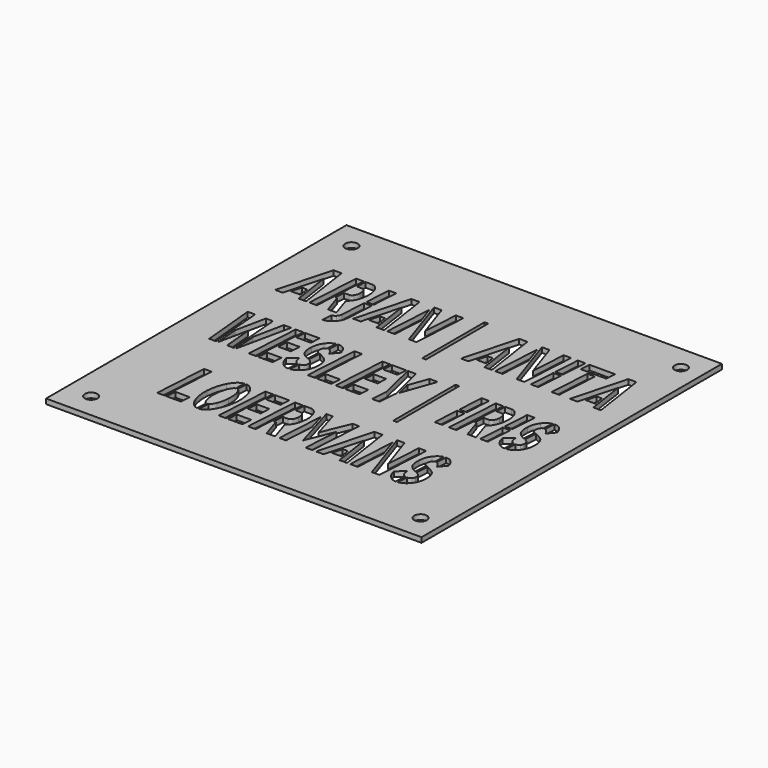
from build123d import *

# Parameters (mm, degrees)
F0_W     = 150
F0_H     = 150
F0_R     = 2.5
F0_W_2   = 1.488286
F0_H_2   = 31.119416
F0_W_3   = 1.488278
F0_H_3   = 31.11941
F1_DEPTH = 2


with BuildPart() as f1:
    # F0 (on Top) → F1 (new body)
    with BuildSketch(Plane.XY):
        with Locations((-0.0457814336, -0.024663806)):
            Rectangle(F0_W, F0_H)
        with Locations((-65.0457814336, -65.024663806)):
            Circle(F0_R, mode=Mode.SUBTRACT)
        Polygon((-46.640085, -50.377932), (-46.403712, -46.30567), (-40.625681, -46.30567), (-40.862055, -50.377932), align=None, mode=Mode.SUBTRACT)
        Polygon((-46.044773, -28.603468), (-47.357962, -50.377932), (-50.360787, -50.377932), (-49.047598, -28.603468), align=None, mode=Mode.SUBTRACT)
        Polygon((-22.100965, -50.377932), (-21.855836, -46.30567), (-16.069052, -46.30567), (-16.305426, -50.377932), align=None, mode=Mode.SUBTRACT)
        with BuildLine():
            add(Edge.make_bspline(
                [(-37.263918, -32.265471), (-36.01493, -29.874781), (-34.561668, -28.608526), (-32.904132, -28.466706)],
                knots=[0, 0, 0, 0, 1, 1, 1, 1], degree=3))
            Line((-32.904132, -28.466706), (-33.158015, -32.706119))
            add(Edge.make_bspline(
                [(-33.158015, -32.706119), (-33.782509, -32.939114), (-34.345721, -33.663411), (-34.847651, -34.879012)],
                knots=[0, 0, 0, 0, 1, 1, 1, 1], degree=3))
            add(Edge.make_bspline(
                [(-34.847651, -34.879012), (-35.384599, -36.195913), (-35.711437, -37.80152), (-35.828166, -39.695836)],
                knots=[0, 0, 0, 0, 1, 1, 1, 1], degree=3))
            add(Edge.make_bspline(
                [(-35.828166, -39.695836), (-35.927384, -41.245731), (-35.819411, -42.633541), (-35.504245, -43.859267)],
                knots=[0, 0, 0, 0, 1, 1, 1, 1], degree=3))
            add(Edge.make_bspline(
                [(-35.504245, -43.859267), (-35.165734, -45.247082), (-34.657968, -46.057483), (-33.980947, -46.290468)],
                knots=[0, 0, 0, 0, 1, 1, 1, 1], degree=3))
            Line((-33.980947, -46.290468), (-34.243584, -50.636253))
            add(Edge.make_bspline(
                [(-34.243584, -50.636253), (-35.994502, -50.322219), (-37.380646, -48.797651), (-38.402015, -46.06255)],
                knots=[0, 0, 0, 0, 1, 1, 1, 1], degree=3))
            add(Edge.make_bspline(
                [(-38.402015, -46.06255), (-39.067364, -44.006155), (-39.327084, -41.807939), (-39.181174, -39.467904)],
                knots=[0, 0, 0, 0, 1, 1, 1, 1], degree=3))
            add(Edge.make_bspline(
                [(-39.181174, -39.467904), (-39.023591, -36.803708), (-38.384506, -34.402897), (-37.263918, -32.265471)],
                knots=[0, 0, 0, 0, 1, 1, 1, 1], degree=3))
        make_face(mode=Mode.SUBTRACT)
        with BuildLine():
            add(Edge.make_bspline(
                [(-31.564679, -33.46587), (-31.815645, -33.02015), (-32.095791, -32.746639), (-32.40512, -32.645339)],
                knots=[0, 0, 0, 0, 1, 1, 1, 1], degree=3))
            Line((-32.40512, -32.645339), (-32.151237, -28.466706))
            add(Edge.make_bspline(
                [(-32.151237, -28.466706), (-30.324446, -28.740221), (-28.923711, -30.224268), (-27.949034, -32.91885)],
                knots=[0, 0, 0, 0, 1, 1, 1, 1], degree=3))
            add(Edge.make_bspline(
                [(-27.949034, -32.91885), (-27.295357, -34.995505), (-27.038556, -37.168393), (-27.178629, -39.437514)],
                knots=[0, 0, 0, 0, 1, 1, 1, 1], degree=3))
            add(Edge.make_bspline(
                [(-27.178629, -39.437514), (-27.342048, -42.051064), (-27.989888, -44.467072), (-29.122148, -46.685538)],
                knots=[0, 0, 0, 0, 1, 1, 1, 1], degree=3))
            add(Edge.make_bspline(
                [(-29.122148, -46.685538), (-30.371137, -49.147134), (-31.824399, -50.464039), (-33.481935, -50.636253)],
                knots=[0, 0, 0, 0, 1, 1, 1, 1], degree=3))
            Line((-33.481935, -50.636253), (-33.219297, -46.290468))
            add(Edge.make_bspline(
                [(-33.219297, -46.290468), (-32.606476, -46.006828), (-32.052018, -45.272405), (-31.555925, -44.087199)],
                knots=[0, 0, 0, 0, 1, 1, 1, 1], degree=3))
            add(Edge.make_bspline(
                [(-31.555925, -44.087199), (-31.01314, -42.810818), (-30.683384, -41.265991), (-30.566656, -39.452715)],
                knots=[0, 0, 0, 0, 1, 1, 1, 1], degree=3))
            add(Edge.make_bspline(
                [(-30.566656, -39.452715), (-30.41491, -37.001246), (-30.747584, -35.00563), (-31.564679, -33.46587)],
                knots=[0, 0, 0, 0, 1, 1, 1, 1], degree=3))
        make_face(mode=Mode.SUBTRACT)
        Polygon((-21.531917, -28.603468), (-22.845105, -50.377932), (-25.84793, -50.377932), (-24.534742, -28.603468), align=None, mode=Mode.SUBTRACT)
        Polygon((-21.540671, -41.093776), (-21.286789, -37.021514), (-16.252898, -37.021514), (-16.506781, -41.093776), align=None, mode=Mode.SUBTRACT)
        Polygon((-9.765746, -28.603468), (-11.078935, -50.377932), (-14.081759, -50.377932), (-12.768571, -28.603468), align=None, mode=Mode.SUBTRACT)
        with BuildLine():
            Line((-5.887463, -42.278987), (-3.261087, -50.377932))
            Line((-3.261087, -50.377932), (-6.640357, -50.377932))
            Line((-6.640357, -50.377932), (-9.152925, -42.658868))
            Line((-9.152925, -42.658868), (-9.870801, -42.658868))
            Line((-9.870801, -42.658868), (-9.616918, -38.586593))
            Line((-9.616918, -38.586593), (-7.577098, -38.586593))
            add(Edge.make_bspline(
                [(-7.577098, -38.586593), (-7.045986, -38.586593), (-6.60242, -38.308021), (-6.2464, -37.750875)],
                knots=[0, 0, 0, 0, 1, 1, 1, 1], degree=3))
            add(Edge.make_bspline(
                [(-6.2464, -37.750875), (-5.89038, -37.203855), (-5.686106, -36.499817), (-5.633579, -35.638762)],
                knots=[0, 0, 0, 0, 1, 1, 1, 1], degree=3))
            add(Edge.make_bspline(
                [(-5.633579, -35.638762), (-5.586888, -34.808102), (-5.706534, -34.109132), (-5.992517, -33.541851)],
                knots=[0, 0, 0, 0, 1, 1, 1, 1], degree=3))
            add(Edge.make_bspline(
                [(-5.992517, -33.541851), (-6.29601, -32.964437), (-6.704557, -32.675729), (-7.21816, -32.675729)],
                knots=[0, 0, 0, 0, 1, 1, 1, 1], degree=3))
            Line((-7.21816, -32.675729), (-9.25798, -32.675729))
            Line((-9.25798, -32.675729), (-9.021606, -28.603468))
            Line((-9.021606, -28.603468), (-6.421492, -28.603468))
            add(Edge.make_bspline(
                [(-6.421492, -28.603468), (-5.330087, -28.603468), (-4.422528, -29.292308), (-3.698816, -30.669989)],
                knots=[0, 0, 0, 0, 1, 1, 1, 1], degree=3))
            add(Edge.make_bspline(
                [(-3.698816, -30.669989), (-2.980938, -32.057804), (-2.677445, -33.678604), (-2.788339, -35.532391)],
                knots=[0, 0, 0, 0, 1, 1, 1, 1], degree=3))
            add(Edge.make_bspline(
                [(-2.788339, -35.532391), (-2.887555, -37.102546), (-3.220229, -38.495423), (-3.786362, -39.711024)],
                knots=[0, 0, 0, 0, 1, 1, 1, 1], degree=3))
            add(Edge.make_bspline(
                [(-3.786362, -39.711024), (-4.334982, -40.936759), (-5.035349, -41.792746), (-5.887463, -42.278987)],
                knots=[0, 0, 0, 0, 1, 1, 1, 1], degree=3))
        make_face(mode=Mode.SUBTRACT)
        with BuildLine():
            Line((-57.78468, -11.738152), (-60.524867, -11.738152))
            Line((-60.524867, -11.738152), (-62.555932, 10.036312))
            Line((-62.555932, 10.036312), (-59.59688, 10.036312))
            add(Edge.make_bspline(
                [(-59.59688, 10.036312), (-58.540493, -2.342571), (-57.936426, -9.600725), (-57.78468, -11.738152)],
                knots=[0, 0, 0, 0, 1, 1, 1, 1], degree=3))
        make_face(mode=Mode.SUBTRACT)
        Polygon((-40.940846, -11.738152), (-40.695717, -7.66589), (-34.908932, -7.66589), (-35.145307, -11.738152), align=None, mode=Mode.SUBTRACT)
        Polygon((-52.453134, 10.036312), (-50.614669, -11.738152), (-53.354857, -11.738152), (-54.44918, 0.053181), (-56.952994, -11.738152), (-57.810943, -2.180486), (-55.272113, 10.036312), align=None, mode=Mode.SUBTRACT)
        Polygon((-49.861775, -11.738152), (-50.632179, -2.180486), (-48.128366, 10.036312), (-45.169314, 10.036312), align=None, mode=Mode.SUBTRACT)
        Polygon((-40.371798, 10.036312), (-41.684986, -11.738152), (-44.687811, -11.738152), (-43.374622, 10.036312), align=None, mode=Mode.SUBTRACT)
        Polygon((-40.380552, -2.453996), (-40.126669, 1.618269), (-35.092779, 1.618269), (-35.346662, -2.453996), align=None, mode=Mode.SUBTRACT)
        Polygon((-21.02415, -32.675729), (-20.787777, -28.603468), (-14.992237, -28.603468), (-15.237366, -32.675729), align=None, mode=Mode.SUBTRACT)
        with BuildLine():
            add(Edge.make_bspline(
                [(-31.844825, -10.568143), (-32.685266, -9.666568), (-33.248478, -8.471227), (-33.534462, -6.982121)],
                knots=[0, 0, 0, 0, 1, 1, 1, 1], degree=3))
            Line((-33.534462, -6.982121), (-30.374054, -4.383769))
            add(Edge.make_bspline(
                [(-30.374054, -4.383769), (-30.31569, -6.105869), (-29.702869, -7.174587), (-28.53559, -7.589922)],
                knots=[0, 0, 0, 0, 1, 1, 1, 1], degree=3))
            Line((-28.53559, -7.589922), (-28.806983, -12.042052))
            add(Edge.make_bspline(
                [(-28.806983, -12.042052), (-29.974261, -11.971128), (-30.986875, -11.479825), (-31.844825, -10.568143)],
                knots=[0, 0, 0, 0, 1, 1, 1, 1], degree=3))
        make_face(mode=Mode.SUBTRACT)
        with BuildLine():
            Line((-27.511303, -3.289741), (-27.213647, 1.86139))
            Line((-27.213647, 1.86139), (-26.915991, 1.755018))
            add(Edge.make_bspline(
                [(-26.915991, 1.755018), (-25.404365, 1.035787), (-24.382996, 0.382401), (-23.851884, -0.205141)],
                knots=[0, 0, 0, 0, 1, 1, 1, 1], degree=3))
            add(Edge.make_bspline(
                [(-23.851884, -0.205141), (-22.877206, -1.309321), (-22.456986, -2.935191), (-22.591223, -5.082752)],
                knots=[0, 0, 0, 0, 1, 1, 1, 1], degree=3))
            add(Edge.make_bspline(
                [(-22.591223, -5.082752), (-22.72546, -6.946673), (-23.312018, -8.521891), (-24.350896, -9.808406)],
                knots=[0, 0, 0, 0, 1, 1, 1, 1], degree=3))
            add(Edge.make_bspline(
                [(-24.350896, -9.808406), (-25.378101, -11.074652), (-26.606662, -11.798945), (-28.036579, -11.981285)],
                knots=[0, 0, 0, 0, 1, 1, 1, 1], degree=3))
            Line((-28.036579, -11.981285), (-27.79145, -7.696293))
            Line((-27.79145, -7.696293), (-27.528812, -7.696293))
            add(Edge.make_bspline(
                [(-27.528812, -7.696293), (-26.986028, -7.615289), (-26.565807, -7.422818), (-26.268151, -7.118883)],
                knots=[0, 0, 0, 0, 1, 1, 1, 1], degree=3))
            add(Edge.make_bspline(
                [(-26.268151, -7.118883), (-25.952986, -6.794723), (-25.780812, -6.389523), (-25.75163, -5.903282)],
                knots=[0, 0, 0, 0, 1, 1, 1, 1], degree=3))
            add(Edge.make_bspline(
                [(-25.75163, -5.903282), (-25.681593, -4.748462), (-26.174769, -3.927932), (-27.231156, -3.441691)],
                knots=[0, 0, 0, 0, 1, 1, 1, 1], degree=3))
            add(Edge.make_bspline(
                [(-27.231156, -3.441691), (-27.412084, -3.350517), (-27.505467, -3.299867), (-27.511303, -3.289741)],
                knots=[0, 0, 0, 0, 1, 1, 1, 1], degree=3))
        make_face(mode=Mode.SUBTRACT)
        Polygon((-16.874473, 10.036312), (-18.187662, -11.738152), (-21.190487, -11.738152), (-19.877298, 10.036312), align=None, mode=Mode.SUBTRACT)
        Polygon((-17.469785, -11.738152), (-17.233411, -7.66589), (-11.455381, -7.66589), (-11.691755, -11.738152), align=None, mode=Mode.SUBTRACT)
        Polygon((-6.272667, -11.738152), (-6.027539, -7.66589), (-0.240753, -7.66589), (-0.47713, -11.738152), align=None, mode=Mode.SUBTRACT)
        Polygon((-5.703619, 10.036312), (-7.016807, -11.738152), (-10.019632, -11.738152), (-8.706444, 10.036312), align=None, mode=Mode.SUBTRACT)
        Polygon((-5.712373, -2.453996), (-5.45849, 1.618269), (-0.424603, 1.618269), (-0.678482, -2.453996), align=None, mode=Mode.SUBTRACT)
        Polygon((-0.372067, -30.92831), (1.807827, -38.313083), (1.081193, -50.377932), (-1.545181, -50.377932), align=None, mode=Mode.SUBTRACT)
        Polygon((5.230872, -47.1262), (-0.231994, -28.603468), (2.324343, -28.603468), (5.668601, -39.847786), (10.317287, -28.603468), (12.882383, -28.603468), (11.569196, -50.377932), (8.925305, -50.377932), (9.800763, -35.988241), align=None, mode=Mode.SUBTRACT)
        Polygon((21.313048, -47.992322), (17.478542, -47.992322), (18.581619, -43.920047), (20.682719, -43.920047), align=None, mode=Mode.SUBTRACT)
        Polygon((20.166202, -35.16771), (16.08656, -50.377932), (13.083735, -50.377932), (18.949312, -28.603468), (22.214774, -28.603468), (25.436467, -50.377932), (22.433642, -50.377932), align=None, mode=Mode.SUBTRACT)
        Polygon((27.905259, -30.71558), (30.444088, -38.313083), (29.717461, -50.377932), (26.714636, -50.377932), align=None, mode=Mode.SUBTRACT)
        with BuildLine():
            Line((39.706449, -28.603468), (38.393255, -50.377932))
            Line((38.393255, -50.377932), (35.346661, -50.377932))
            Line((35.346661, -50.377932), (28.027823, -28.603468))
            Line((28.027823, -28.603468), (31.030648, -28.603468))
            add(Edge.make_bspline(
                [(31.030648, -28.603468), (33.861299, -36.9506), (35.466305, -41.691446), (35.845668, -42.826007)],
                knots=[0, 0, 0, 0, 1, 1, 1, 1], degree=3))
            Line((35.845668, -42.826007), (36.703624, -28.603468))
            Line((36.703624, -28.603468), (39.706449, -28.603468))
        make_face(mode=Mode.SUBTRACT)
        with Locations((66.5786843773, -65.024663806)):
            Circle(F0_R, mode=Mode.SUBTRACT)
        with BuildLine():
            add(Edge.make_bspline(
                [(42.113955, -49.207923), (41.273516, -48.306348), (40.710306, -47.111003), (40.424325, -45.621888)],
                knots=[0, 0, 0, 0, 1, 1, 1, 1], degree=3))
            Line((40.424325, -45.621888), (43.584733, -43.023549))
            add(Edge.make_bspline(
                [(43.584733, -43.023549), (43.643096, -44.745649), (44.255917, -45.814363), (45.423195, -46.229688)],
                knots=[0, 0, 0, 0, 1, 1, 1, 1], degree=3))
            Line((45.423195, -46.229688), (45.151799, -50.681832))
            add(Edge.make_bspline(
                [(45.151799, -50.681832), (43.984521, -50.610908), (42.971907, -50.119605), (42.113955, -49.207923)],
                knots=[0, 0, 0, 0, 1, 1, 1, 1], degree=3))
        make_face(mode=Mode.SUBTRACT)
        with BuildLine():
            Line((46.447484, -41.929521), (46.74514, -36.778394))
            Line((46.74514, -36.778394), (47.042796, -36.884779))
            add(Edge.make_bspline(
                [(47.042796, -36.884779), (48.554423, -37.604014), (49.57579, -38.257402), (50.106899, -38.844942)],
                knots=[0, 0, 0, 0, 1, 1, 1, 1], degree=3))
            add(Edge.make_bspline(
                [(50.106899, -38.844942), (51.081578, -39.949108), (51.501798, -41.574976), (51.367559, -43.722545)],
                knots=[0, 0, 0, 0, 1, 1, 1, 1], degree=3))
            add(Edge.make_bspline(
                [(51.367559, -43.722545), (51.233324, -45.586466), (50.646769, -47.161684), (49.607892, -48.448199)],
                knots=[0, 0, 0, 0, 1, 1, 1, 1], degree=3))
            add(Edge.make_bspline(
                [(49.607892, -48.448199), (48.580683, -49.714445), (47.352122, -50.438738), (45.92221, -50.621078)],
                knots=[0, 0, 0, 0, 1, 1, 1, 1], degree=3))
            Line((45.92221, -50.621078), (46.167338, -46.336086))
            Line((46.167338, -46.336086), (46.429975, -46.336086))
            add(Edge.make_bspline(
                [(46.429975, -46.336086), (46.972757, -46.255082), (47.392977, -46.062612), (47.690635, -45.758676)],
                knots=[0, 0, 0, 0, 1, 1, 1, 1], degree=3))
            add(Edge.make_bspline(
                [(47.690635, -45.758676), (48.0058, -45.434516), (48.177972, -45.029316), (48.207151, -44.543076)],
                knots=[0, 0, 0, 0, 1, 1, 1, 1], degree=3))
            add(Edge.make_bspline(
                [(48.207151, -44.543076), (48.277188, -43.388255), (47.784014, -42.567725), (46.727631, -42.081485)],
                knots=[0, 0, 0, 0, 1, 1, 1, 1], degree=3))
            add(Edge.make_bspline(
                [(46.727631, -42.081485), (46.5467, -41.99031), (46.453318, -41.939656), (46.447484, -41.929521)],
                knots=[0, 0, 0, 0, 1, 1, 1, 1], degree=3))
        make_face(mode=Mode.SUBTRACT)
        Polygon((4.609293, -11.738152), (5.003245, -5.143519), (1.413867, 10.036312), (4.67933, 10.036312), (5.826176, 5.234685), (8.198671, -4.505329), (7.971052, -5.143519), (7.568341, -11.738152), align=None, mode=Mode.SUBTRACT)
        with Locations((19.623418, -3.517652)):
            Rectangle(F0_W_2, F0_H_2, mode=Mode.SUBTRACT)
        Polygon((32.597722, -11.738152), (29.594897, -11.738152), (30.225227, -1.359956), (33.228052, -1.359956), align=None, mode=Mode.SUBTRACT)
        Polygon((39.575135, 10.036312), (38.261947, -11.738152), (35.259122, -11.738152), (36.57231, 10.036312), align=None, mode=Mode.SUBTRACT)
        with BuildLine():
            add(Edge.make_bspline(
                [(44.89792, -34.62069), (44.84539, -35.502005), (45.216002, -36.10981), (46.009755, -36.444104)],
                knots=[0, 0, 0, 0, 1, 1, 1, 1], degree=3))
            Line((46.009755, -36.444104), (45.694583, -41.610406))
            add(Edge.make_bspline(
                [(45.694583, -41.610406), (44.112924, -40.901306), (43.076967, -40.065579), (42.58671, -39.103224)],
                knots=[0, 0, 0, 0, 1, 1, 1, 1], degree=3))
            add(Edge.make_bspline(
                [(42.58671, -39.103224), (42.026412, -38.019318), (41.79879, -36.62644), (41.903845, -34.92459)],
                knots=[0, 0, 0, 0, 1, 1, 1, 1], degree=3))
            add(Edge.make_bspline(
                [(41.903845, -34.92459), (42.0089, -33.16197), (42.519586, -31.667792), (43.435901, -30.442057)],
                knots=[0, 0, 0, 0, 1, 1, 1, 1], degree=3))
            add(Edge.make_bspline(
                [(43.435901, -30.442057), (44.293852, -29.297371), (45.31814, -28.583208), (46.508763, -28.299568)],
                knots=[0, 0, 0, 0, 1, 1, 1, 1], degree=3))
            Line((46.508763, -28.299568), (46.254884, -32.538981))
            add(Edge.make_bspline(
                [(46.254884, -32.538981), (45.893022, -32.630147), (45.580774, -32.88846), (45.31814, -33.31392)],
                knots=[0, 0, 0, 0, 1, 1, 1, 1], degree=3))
            add(Edge.make_bspline(
                [(45.31814, -33.31392), (45.061339, -33.729254), (44.921265, -34.164844), (44.89792, -34.62069)],
                knots=[0, 0, 0, 0, 1, 1, 1, 1], degree=3))
        make_face(mode=Mode.SUBTRACT)
        with BuildLine():
            Line((46.999019, -32.584559), (47.261657, -28.238788))
            Line((47.261657, -28.238788), (47.392979, -28.238788))
            add(Edge.make_bspline(
                [(47.392979, -28.238788), (49.412369, -28.238788), (50.745985, -29.510105), (51.393826, -32.052741)],
                knots=[0, 0, 0, 0, 1, 1, 1, 1], degree=3))
            Line((51.393826, -32.052741), (48.968804, -34.92459))
            add(Edge.make_bspline(
                [(48.968804, -34.92459), (48.525238, -33.759644), (47.868643, -32.979634), (46.999019, -32.584559)],
                knots=[0, 0, 0, 0, 1, 1, 1, 1], degree=3))
        make_face(mode=Mode.SUBTRACT)
        with BuildLine():
            Line((43.453418, -3.639207), (46.079792, -11.738152))
            Line((46.079792, -11.738152), (42.700524, -11.738152))
            Line((42.700524, -11.738152), (40.187955, -4.019088))
            Line((40.187955, -4.019088), (39.47008, -4.019088))
            Line((39.47008, -4.019088), (39.723959, 0.053181))
            Line((39.723959, 0.053181), (41.76378, 0.053181))
            add(Edge.make_bspline(
                [(41.76378, 0.053181), (42.294894, 0.053181), (42.738459, 0.331757), (43.094476, 0.888908)],
                knots=[0, 0, 0, 0, 1, 1, 1, 1], degree=3))
            add(Edge.make_bspline(
                [(43.094476, 0.888908), (43.450498, 1.435929), (43.654772, 2.139965), (43.707297, 3.001016)],
                knots=[0, 0, 0, 0, 1, 1, 1, 1], degree=3))
            add(Edge.make_bspline(
                [(43.707297, 3.001016), (43.753967, 3.831678), (43.634323, 4.530649), (43.348363, 5.09793)],
                knots=[0, 0, 0, 0, 1, 1, 1, 1], degree=3))
            add(Edge.make_bspline(
                [(43.348363, 5.09793), (43.044871, 5.67534), (42.636324, 5.964045), (42.122721, 5.964045)],
                knots=[0, 0, 0, 0, 1, 1, 1, 1], degree=3))
            Line((42.122721, 5.964045), (40.0829, 5.964045))
            Line((40.0829, 5.964045), (40.31927, 10.036312))
            Line((40.31927, 10.036312), (42.919384, 10.036312))
            add(Edge.make_bspline(
                [(42.919384, 10.036312), (44.010791, 10.036312), (44.918351, 9.347471), (45.642063, 7.969789)],
                knots=[0, 0, 0, 0, 1, 1, 1, 1], degree=3))
            add(Edge.make_bspline(
                [(45.642063, 7.969789), (46.359941, 6.581976), (46.663433, 4.961174), (46.552539, 3.107381)],
                knots=[0, 0, 0, 0, 1, 1, 1, 1], degree=3))
            add(Edge.make_bspline(
                [(46.552539, 3.107381), (46.453323, 1.537229), (46.120649, 0.144352), (45.554517, -1.071251)],
                knots=[0, 0, 0, 0, 1, 1, 1, 1], degree=3))
            add(Edge.make_bspline(
                [(45.554517, -1.071251), (45.005897, -2.296981), (44.30553, -3.152966), (43.453418, -3.639207)],
                knots=[0, 0, 0, 0, 1, 1, 1, 1], degree=3))
        make_face(mode=Mode.SUBTRACT)
        Polygon((50.807273, -11.738152), (47.804448, -11.738152), (48.434778, -1.359956), (51.437603, -1.359956), align=None, mode=Mode.SUBTRACT)
        with BuildLine():
            add(Edge.make_bspline(
                [(54.545475, -10.568143), (53.705036, -9.666568), (53.141823, -8.471227), (52.855838, -6.982121)],
                knots=[0, 0, 0, 0, 1, 1, 1, 1], degree=3))
            Line((52.855838, -6.982121), (56.016245, -4.383769))
            add(Edge.make_bspline(
                [(56.016245, -4.383769), (56.074609, -6.105869), (56.68743, -7.174587), (57.854707, -7.589922)],
                knots=[0, 0, 0, 0, 1, 1, 1, 1], degree=3))
            Line((57.854707, -7.589922), (57.583319, -12.042052))
            add(Edge.make_bspline(
                [(57.583319, -12.042052), (56.416041, -11.971128), (55.403427, -11.479825), (54.545475, -10.568143)],
                knots=[0, 0, 0, 0, 1, 1, 1, 1], degree=3))
        make_face(mode=Mode.SUBTRACT)
        with BuildLine():
            Line((58.878997, -3.289741), (59.176653, 1.86139))
            Line((59.176653, 1.86139), (59.474308, 1.755018))
            add(Edge.make_bspline(
                [(59.474308, 1.755018), (60.985935, 1.035787), (62.007305, 0.382401), (62.538419, -0.205141)],
                knots=[0, 0, 0, 0, 1, 1, 1, 1], degree=3))
            add(Edge.make_bspline(
                [(62.538419, -0.205141), (63.513093, -1.309321), (63.933313, -2.935191), (63.799079, -5.082752)],
                knots=[0, 0, 0, 0, 1, 1, 1, 1], degree=3))
            add(Edge.make_bspline(
                [(63.799079, -5.082752), (63.664839, -6.946673), (63.078281, -8.521891), (62.039404, -9.808406)],
                knots=[0, 0, 0, 0, 1, 1, 1, 1], degree=3))
            add(Edge.make_bspline(
                [(62.039404, -9.808406), (61.0122, -11.074652), (59.783639, -11.798945), (58.353722, -11.981285)],
                knots=[0, 0, 0, 0, 1, 1, 1, 1], degree=3))
            Line((58.353722, -11.981285), (58.59885, -7.696293))
            Line((58.59885, -7.696293), (58.861488, -7.696293))
            add(Edge.make_bspline(
                [(58.861488, -7.696293), (59.404274, -7.615289), (59.824494, -7.422818), (60.122147, -7.118883)],
                knots=[0, 0, 0, 0, 1, 1, 1, 1], degree=3))
            add(Edge.make_bspline(
                [(60.122147, -7.118883), (60.437312, -6.794723), (60.609487, -6.389523), (60.638671, -5.903282)],
                knots=[0, 0, 0, 0, 1, 1, 1, 1], degree=3))
            add(Edge.make_bspline(
                [(60.638671, -5.903282), (60.708708, -4.748462), (60.215532, -3.927932), (59.159143, -3.441691)],
                knots=[0, 0, 0, 0, 1, 1, 1, 1], degree=3))
            add(Edge.make_bspline(
                [(59.159143, -3.441691), (58.978218, -3.350517), (58.884836, -3.299867), (58.878997, -3.289741)],
                knots=[0, 0, 0, 0, 1, 1, 1, 1], degree=3))
        make_face(mode=Mode.SUBTRACT)
        Polygon((-56.83043, 29.287239), (-60.66494, 29.287239), (-59.561862, 33.359506), (-57.46076, 33.359506), align=None, mode=Mode.SUBTRACT)
        with BuildLine():
            Line((-37.797953, 37.279822), (-34.830146, 37.279822))
            Line((-34.830146, 37.279822), (-35.486741, 26.309014))
            add(Edge.make_bspline(
                [(-35.486741, 26.309014), (-35.609305, 24.566651), (-36.271736, 23.107929), (-37.474033, 21.932848)],
                knots=[0, 0, 0, 0, 1, 1, 1, 1], degree=3))
            add(Edge.make_bspline(
                [(-37.474033, 21.932848), (-38.559602, 20.899586), (-39.71229, 20.382955), (-40.932097, 20.382955)],
                knots=[0, 0, 0, 0, 1, 1, 1, 1], degree=3))
            Line((-40.932097, 20.382955), (-40.678213, 24.516002))
            add(Edge.make_bspline(
                [(-40.678213, 24.516002), (-40.112083, 24.516002), (-39.604317, 24.754057), (-39.154915, 25.230167)],
                knots=[0, 0, 0, 0, 1, 1, 1, 1], degree=3))
            add(Edge.make_bspline(
                [(-39.154915, 25.230167), (-38.705512, 25.736668), (-38.460384, 26.349534), (-38.419529, 27.068765)],
                knots=[0, 0, 0, 0, 1, 1, 1, 1], degree=3))
            Line((-38.419529, 27.068765), (-37.797953, 37.279822))
        make_face(mode=Mode.SUBTRACT)
        with BuildLine():
            add(Edge.make_bspline(
                [(-29.060865, 4.019083), (-29.113393, 3.137772), (-28.742782, 2.529971), (-27.949032, 2.19568)],
                knots=[0, 0, 0, 0, 1, 1, 1, 1], degree=3))
            Line((-27.949032, 2.19568), (-28.264198, -2.970626))
            add(Edge.make_bspline(
                [(-28.264198, -2.970626), (-29.845861, -2.261526), (-30.881821, -1.4258), (-31.372078, -0.463449)],
                knots=[0, 0, 0, 0, 1, 1, 1, 1], degree=3))
            add(Edge.make_bspline(
                [(-31.372078, -0.463449), (-31.932372, 0.620462), (-32.159991, 2.013339), (-32.054936, 3.715182)],
                knots=[0, 0, 0, 0, 1, 1, 1, 1], degree=3))
            add(Edge.make_bspline(
                [(-32.054936, 3.715182), (-31.94988, 5.477805), (-31.439196, 6.971982), (-30.522882, 8.197714)],
                knots=[0, 0, 0, 0, 1, 1, 1, 1], degree=3))
            add(Edge.make_bspline(
                [(-30.522882, 8.197714), (-29.664932, 9.342406), (-28.640645, 10.056572), (-27.450021, 10.340212)],
                knots=[0, 0, 0, 0, 1, 1, 1, 1], degree=3))
            Line((-27.450021, 10.340212), (-27.703904, 6.100802))
            add(Edge.make_bspline(
                [(-27.703904, 6.100802), (-28.06576, 6.009631), (-28.378007, 5.751315), (-28.640645, 5.325855)],
                knots=[0, 0, 0, 0, 1, 1, 1, 1], degree=3))
            add(Edge.make_bspline(
                [(-28.640645, 5.325855), (-28.897446, 4.910524), (-29.03752, 4.474933), (-29.060865, 4.019083)],
                knots=[0, 0, 0, 0, 1, 1, 1, 1], degree=3))
        make_face(mode=Mode.SUBTRACT)
        Polygon((-39.864031, 5.964045), (-39.627658, 10.036312), (-33.832118, 10.036312), (-34.077246, 5.964045), align=None, mode=Mode.SUBTRACT)
        with BuildLine():
            Line((-26.959764, 6.055217), (-26.697126, 10.400992))
            Line((-26.697126, 10.400992), (-26.565807, 10.400992))
            add(Edge.make_bspline(
                [(-26.565807, 10.400992), (-24.546415, 10.400992), (-23.212799, 9.129676), (-22.564959, 6.587042)],
                knots=[0, 0, 0, 0, 1, 1, 1, 1], degree=3))
            Line((-22.564959, 6.587042), (-24.989981, 3.715182))
            add(Edge.make_bspline(
                [(-24.989981, 3.715182), (-25.433547, 4.880134), (-26.090141, 5.660146), (-26.959764, 6.055217)],
                knots=[0, 0, 0, 0, 1, 1, 1, 1], degree=3))
        make_face(mode=Mode.SUBTRACT)
        Polygon((-5.195852, 5.964045), (-4.959478, 10.036312), (0.836065, 10.036312), (0.590929, 5.964045), align=None, mode=Mode.SUBTRACT)
        Polygon((-25.699103, 29.287239), (-29.533614, 29.287239), (-28.430536, 33.359506), (-26.329434, 33.359506), align=None, mode=Mode.SUBTRACT)
        Polygon((-19.106895, 46.563981), (-16.568063, 38.96647), (-17.294694, 26.90162), (-20.297519, 26.90162), align=None, mode=Mode.SUBTRACT)
        Polygon((-57.977281, 42.111839), (-62.05692, 26.90162), (-65.059745, 26.90162), (-59.194169, 48.67609), (-55.928707, 48.67609), (-52.707017, 26.90162), (-55.709842, 26.90162), align=None, mode=Mode.SUBTRACT)
        Polygon((-47.112833, 48.67609), (-48.426022, 26.90162), (-51.428846, 26.90162), (-50.115658, 48.67609), align=None, mode=Mode.SUBTRACT)
        with BuildLine():
            Line((-43.234549, 35.000568), (-40.608172, 26.90162))
            Line((-40.608172, 26.90162), (-43.987444, 26.90162))
            Line((-43.987444, 26.90162), (-46.500012, 34.620693))
            Line((-46.500012, 34.620693), (-47.217888, 34.620693))
            Line((-47.217888, 34.620693), (-46.964005, 38.692958))
            Line((-46.964005, 38.692958), (-44.924185, 38.692958))
            add(Edge.make_bspline(
                [(-44.924185, 38.692958), (-44.393073, 38.692958), (-43.949507, 38.971534), (-43.593487, 39.528685)],
                knots=[0, 0, 0, 0, 1, 1, 1, 1], degree=3))
            add(Edge.make_bspline(
                [(-43.593487, 39.528685), (-43.237467, 40.075706), (-43.033193, 40.779742), (-42.980666, 41.640794)],
                knots=[0, 0, 0, 0, 1, 1, 1, 1], degree=3))
            add(Edge.make_bspline(
                [(-42.980666, 41.640794), (-42.933975, 42.471455), (-43.053621, 43.170426), (-43.339604, 43.737707)],
                knots=[0, 0, 0, 0, 1, 1, 1, 1], degree=3))
            add(Edge.make_bspline(
                [(-43.339604, 43.737707), (-43.643097, 44.315118), (-44.051645, 44.603824), (-44.565247, 44.603824)],
                knots=[0, 0, 0, 0, 1, 1, 1, 1], degree=3))
            Line((-44.565247, 44.603824), (-46.605067, 44.603824))
            Line((-46.605067, 44.603824), (-46.368693, 48.67609))
            Line((-46.368693, 48.67609), (-43.76858, 48.67609))
            add(Edge.make_bspline(
                [(-43.76858, 48.67609), (-42.677174, 48.67609), (-41.769614, 47.987248), (-41.045901, 46.609566)],
                knots=[0, 0, 0, 0, 1, 1, 1, 1], degree=3))
            add(Edge.make_bspline(
                [(-41.045901, 46.609566), (-40.328025, 45.221755), (-40.024533, 43.600952), (-40.135424, 41.747159)],
                knots=[0, 0, 0, 0, 1, 1, 1, 1], degree=3))
            add(Edge.make_bspline(
                [(-40.135424, 41.747159), (-40.234643, 40.177006), (-40.567317, 38.784129), (-41.133448, 37.568527)],
                knots=[0, 0, 0, 0, 1, 1, 1, 1], degree=3))
            add(Edge.make_bspline(
                [(-41.133448, 37.568527), (-41.682069, 36.342795), (-42.382436, 35.486809), (-43.234549, 35.000568)],
                knots=[0, 0, 0, 0, 1, 1, 1, 1], degree=3))
        make_face(mode=Mode.SUBTRACT)
        with Locations((-65.0457814336, 64.975336194)):
            Circle(F0_R, mode=Mode.SUBTRACT)
        Polygon((-34.147285, 48.691285), (-34.768861, 38.313083), (-37.736667, 38.313083), (-37.115091, 48.691285), align=None, mode=Mode.SUBTRACT)
        Polygon((-26.845955, 42.111839), (-30.925594, 26.90162), (-33.928419, 26.90162), (-28.062843, 48.67609), (-24.797381, 48.67609), (-21.575691, 26.90162), (-24.578516, 26.90162), align=None, mode=Mode.SUBTRACT)
        with BuildLine():
            Line((-7.305706, 48.67609), (-8.618895, 26.90162))
            Line((-8.618895, 26.90162), (-11.665492, 26.90162))
            Line((-11.665492, 26.90162), (-18.984331, 48.67609))
            Line((-18.984331, 48.67609), (-15.981506, 48.67609))
            add(Edge.make_bspline(
                [(-15.981506, 48.67609), (-13.150854, 40.328956), (-11.545846, 35.588109), (-11.166481, 34.453548)],
                knots=[0, 0, 0, 0, 1, 1, 1, 1], degree=3))
            Line((-11.166481, 34.453548), (-10.30853, 48.67609))
            Line((-10.30853, 48.67609), (-7.305706, 48.67609))
        make_face(mode=Mode.SUBTRACT)
        Polygon((8.653909, -3.198558), (7.340722, 2.362825), (10.089661, 10.036312), (13.390141, 10.036312), align=None, mode=Mode.SUBTRACT)
        Polygon((33.289338, -0.326694), (30.286513, -0.326694), (30.908084, 10.036312), (33.910909, 10.036312), align=None, mode=Mode.SUBTRACT)
        with Locations((0.310786, 35.122128)):
            Rectangle(F0_W_3, F0_H_3, mode=Mode.SUBTRACT)
        Polygon((17.373487, 29.287239), (13.538973, 29.287239), (14.642058, 33.359506), (16.743157, 33.359506), align=None, mode=Mode.SUBTRACT)
        Polygon((23.96569, 46.563981), (26.504526, 38.96647), (25.777892, 26.90162), (22.775067, 26.90162), align=None, mode=Mode.SUBTRACT)
        Polygon((51.498889, -0.326694), (48.496064, -0.326694), (49.117635, 10.036312), (52.12046, 10.036312), align=None, mode=Mode.SUBTRACT)
        with BuildLine():
            add(Edge.make_bspline(
                [(57.329432, 4.019083), (57.276907, 3.137772), (57.647519, 2.529971), (58.441268, 2.19568)],
                knots=[0, 0, 0, 0, 1, 1, 1, 1], degree=3))
            Line((58.441268, 2.19568), (58.126103, -2.970626))
            add(Edge.make_bspline(
                [(58.126103, -2.970626), (56.544439, -2.261526), (55.508479, -1.4258), (55.018223, -0.463449)],
                knots=[0, 0, 0, 0, 1, 1, 1, 1], degree=3))
            add(Edge.make_bspline(
                [(55.018223, -0.463449), (54.45793, 0.620462), (54.230311, 2.013339), (54.335366, 3.715182)],
                knots=[0, 0, 0, 0, 1, 1, 1, 1], degree=3))
            add(Edge.make_bspline(
                [(54.335366, 3.715182), (54.44042, 5.477805), (54.951106, 6.971982), (55.867421, 8.197714)],
                knots=[0, 0, 0, 0, 1, 1, 1, 1], degree=3))
            add(Edge.make_bspline(
                [(55.867421, 8.197714), (56.725367, 9.342406), (57.749655, 10.056572), (58.940283, 10.340212)],
                knots=[0, 0, 0, 0, 1, 1, 1, 1], degree=3))
            Line((58.940283, 10.340212), (58.686396, 6.100802))
            add(Edge.make_bspline(
                [(58.686396, 6.100802), (58.32454, 6.009631), (58.012292, 5.751315), (57.749652, 5.325855)],
                knots=[0, 0, 0, 0, 1, 1, 1, 1], degree=3))
            add(Edge.make_bspline(
                [(57.749652, 5.325855), (57.492851, 4.910524), (57.352778, 4.474933), (57.329432, 4.019083)],
                knots=[0, 0, 0, 0, 1, 1, 1, 1], degree=3))
        make_face(mode=Mode.SUBTRACT)
        with BuildLine():
            Line((59.430539, 6.055217), (59.693177, 10.400992))
            Line((59.693177, 10.400992), (59.824492, 10.400992))
            add(Edge.make_bspline(
                [(59.824492, 10.400992), (61.843887, 10.400992), (63.177502, 9.129676), (63.825339, 6.587042)],
                knots=[0, 0, 0, 0, 1, 1, 1, 1], degree=3))
            Line((63.825339, 6.587042), (61.400316, 3.715182))
            add(Edge.make_bspline(
                [(61.400316, 3.715182), (60.956751, 4.880134), (60.300158, 5.660146), (59.430539, 6.055217)],
                knots=[0, 0, 0, 0, 1, 1, 1, 1], degree=3))
        make_face(mode=Mode.SUBTRACT)
        Polygon((40.10916, 26.90162), (37.106335, 26.90162), (37.736665, 37.279822), (40.73949, 37.279822), align=None, mode=Mode.SUBTRACT)
        Polygon((46.394957, 43.524977), (49.40654, 43.524977), (48.391001, 26.90162), (45.388176, 26.90162), align=None, mode=Mode.SUBTRACT)
        Polygon((60.936335, 29.287239), (57.101828, 29.287239), (58.204906, 33.359506), (60.306005, 33.359506), align=None, mode=Mode.SUBTRACT)
        Polygon((16.226633, 42.111839), (12.146998, 26.90162), (9.144173, 26.90162), (15.00975, 48.67609), (18.275213, 48.67609), (21.496898, 26.90162), (18.494073, 26.90162), align=None, mode=Mode.SUBTRACT)
        with BuildLine():
            Line((35.76688, 48.67609), (34.453693, 26.90162))
            Line((34.453693, 26.90162), (31.407099, 26.90162))
            Line((31.407099, 26.90162), (24.088254, 48.67609))
            Line((24.088254, 48.67609), (27.091079, 48.67609))
            add(Edge.make_bspline(
                [(27.091079, 48.67609), (29.921735, 40.328956), (31.526744, 35.588109), (31.906107, 34.453548)],
                knots=[0, 0, 0, 0, 1, 1, 1, 1], degree=3))
            Line((31.906107, 34.453548), (32.764055, 48.67609))
            Line((32.764055, 48.67609), (35.76688, 48.67609))
        make_face(mode=Mode.SUBTRACT)
        Polygon((40.800768, 38.313083), (37.797951, 38.313083), (38.419522, 48.67609), (41.422347, 48.67609), align=None, mode=Mode.SUBTRACT)
        Polygon((53.039695, 44.603824), (42.858106, 44.603824), (43.103234, 48.67609), (53.276065, 48.67609), align=None, mode=Mode.SUBTRACT)
        Polygon((59.789488, 42.111839), (55.709846, 26.90162), (52.707021, 26.90162), (58.572598, 48.67609), (61.83806, 48.67609), (65.059746, 26.90162), (62.056921, 26.90162), align=None, mode=Mode.SUBTRACT)
        with Locations((66.5786843773, 64.975336194)):
            Circle(F0_R, mode=Mode.SUBTRACT)
    extrude(amount=F1_DEPTH)


solid = f1.part
